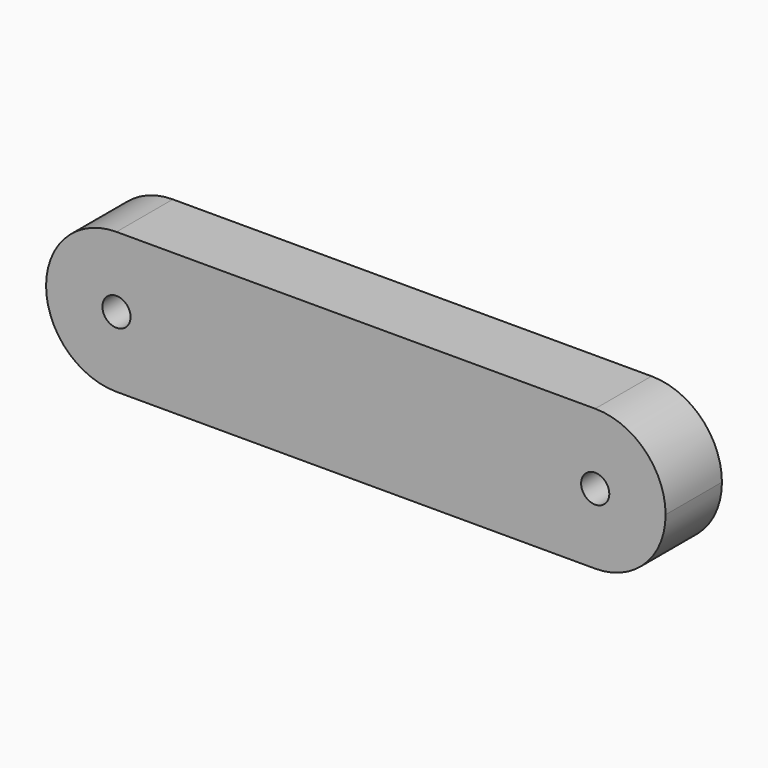
from build123d import *

# Parameters (mm, degrees)
F3_DEPTH = 5
F4_D     = 2


with BuildPart() as f3:
    # F2 (on Front) → F3 (new body)
    with BuildSketch(Plane.XZ):
        with BuildLine():
            Line((10.5782822311, 5), (-23.4217177689, 5))
            ThreePointArc((-23.4217177689, 5), (-19.886183863, 3.5355339059), (-18.4217177689, 0))
            ThreePointArc((-18.4217177689, 0), (-19.886183863, -3.5355339059), (-23.4217177689, -5))
            Line((-23.4217177689, -5), (10.5782822311, -5))
            ThreePointArc((10.5782822311, -5), (5.5782822311, 0), (10.5782822311, 5))
        make_face()
        with BuildLine():
            ThreePointArc((-18.4217177689, 0), (-19.886183863, 3.5355339059), (-23.4217177689, 5))
            ThreePointArc((-23.4217177689, 5), (-28.4217177689, 0), (-23.4217177689, -5))
            ThreePointArc((-23.4217177689, -5), (-19.886183863, -3.5355339059), (-18.4217177689, 0))
        make_face()
        with BuildLine():
            ThreePointArc((15.5782822311, 0), (14.113816137, 3.5355339059), (10.5782822311, 5))
            ThreePointArc((10.5782822311, 5), (5.5782822311, 0), (10.5782822311, -5))
            ThreePointArc((10.5782822311, -5), (14.113816137, -3.5355339059), (15.5782822311, 0))
        make_face()
    extrude(amount=F3_DEPTH)

    # F4 (through all)
    with Locations(Plane(origin=(0, 0, 0), x_dir=(1, 0, 0), z_dir=(0, 1, 0))):
        with Locations((-23.4217177689, 0), (10.5782822311, 0)):
            Hole(F4_D / 2)


solid = f3.part
